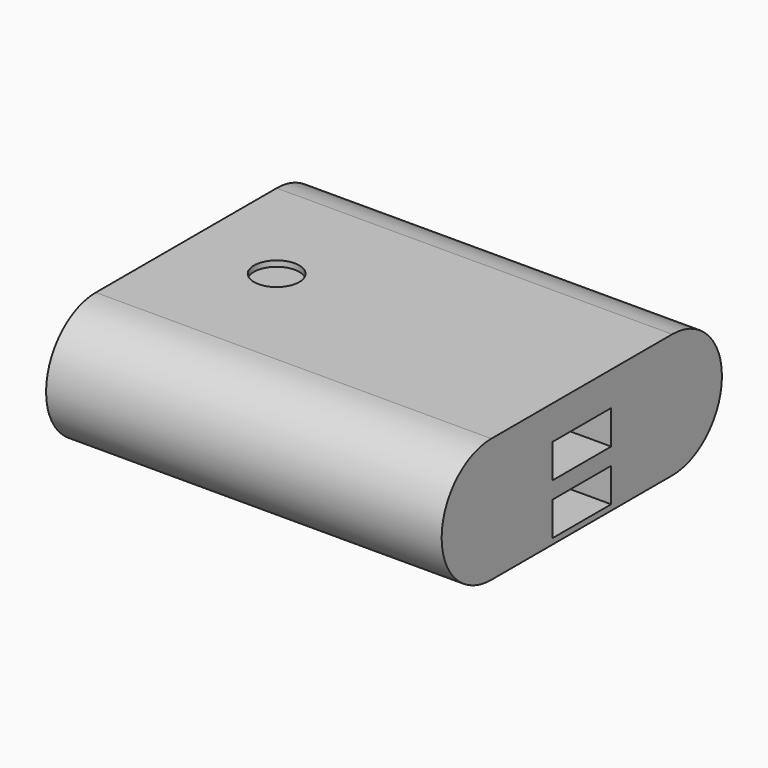
from build123d import *

# Parameters (mm, degrees)
CYLINDER002_R           = 4
CYLINDER002_DEPTH       = 2
BOX001_W                = 15
BOX001_H                = 13
BOX001_DEPTH            = 6
BOX001001_W             = 15
BOX001001_H             = 13
BOX001001_DEPTH         = 6
BOX_W                   = 70
BOX_H                   = 40
BOX_DEPTH               = 22
CYLINDER_R              = 11
CYLINDER_DEPTH          = 70
CYLINDER_PITCH_ANGLE    = 90
CYLINDER001_R           = 11
CYLINDER001_DEPTH       = 70
CYLINDER001_PITCH_ANGLE = 90


with BuildPart() as powerbutton:
    # Cylinder002 → Cylinder002 (new body)
    with BuildSketch(Plane(origin=(16, 20, 10), x_dir=(1, 0, 0), z_dir=(0, 0, 1))):
        Circle(CYLINDER002_R)
    extrude(amount=CYLINDER002_DEPTH)


with BuildPart() as usb1:
    # Box001 → Box001 (new body)
    with BuildSketch(Plane(origin=(60, 13.5, -1), x_dir=(1, 0, 0), z_dir=(0, 0, 1))):
        with Locations((7.5, 6.5)):
            Rectangle(BOX001_W, BOX001_H)
    extrude(amount=BOX001_DEPTH)


with BuildPart() as fusion001:
    # Box001001 → Box001001 (new body)
    with BuildSketch(Plane(origin=(60, 13.5, -10), x_dir=(1, 0, 0), z_dir=(0, 0, 1))):
        with Locations((7.5, 6.5)):
            Rectangle(BOX001001_W, BOX001001_H)
    extrude(amount=BOX001001_DEPTH)

    # Fusion001: union PowerButton, USB1
    add(powerbutton.part)
    add(usb1.part)


with BuildPart() as box:
    # Box → Box (new body)
    with BuildSketch(Plane.XY.offset(-11)):
        with Locations((35, 20)):
            Rectangle(BOX_W, BOX_H)
    extrude(amount=BOX_DEPTH)


with BuildPart() as cylinder:
    # Cylinder → Cylinder (new body)
    with BuildSketch(Plane.XY):
        Circle(CYLINDER_R)
    extrude(amount=CYLINDER_DEPTH)


with BuildPart() as cylinder_1:
    # Cylinder pitch: moved
    add(cylinder.part.rotate(Axis((0, 0, 0), (0, 1, 0)), CYLINDER_PITCH_ANGLE))


with BuildPart() as cylinder_2:
    # Cylinder placement: moved
    add(cylinder_1.part)


with BuildPart() as obj1:
    # Cylinder001 → Cylinder001 (new body)
    with BuildSketch(Plane.XY):
        Circle(CYLINDER001_R)
    extrude(amount=CYLINDER001_DEPTH)


with BuildPart() as obj1_1:
    # Cylinder001 pitch: moved
    add(obj1.part.rotate(Axis((0, 0, 0), (0, 1, 0)), CYLINDER001_PITCH_ANGLE))


with BuildPart() as obj1_2:
    # Cylinder001 placement: moved
    add(obj1_1.part.moved(Location((0, 40, 0))))

    # Fusion: union Box, Cylinder
    add(box.part)
    add(cylinder_2.part)

    # Cut: cut Fusion001
    add(fusion001.part, mode=Mode.SUBTRACT)


solid = obj1_2.part
